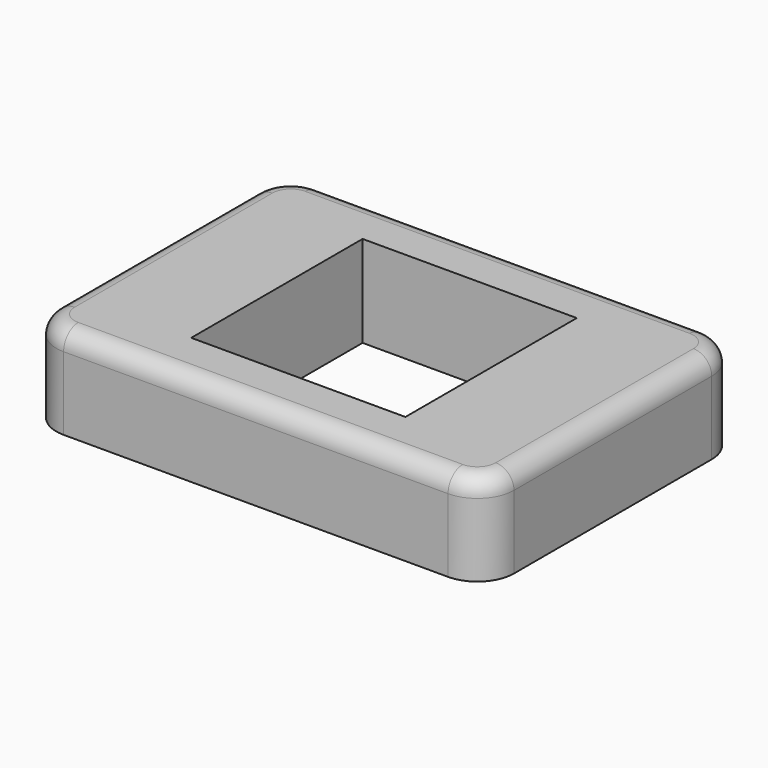
from build123d import *

# Parameters (mm, degrees)
SKETCH_W     = 50
SKETCH_H     = 35
PAD_DEPTH    = 10
SKETCH001_W  = 23.4
SKETCH001_H  = 23.4
POCKET_DEPTH = 10.001
FILLET_R     = 4
FILLET001_R  = 2


with BuildPart() as part:
    # Sketch → Pad (new body)
    with BuildSketch(Plane.XY):
        Rectangle(SKETCH_W, SKETCH_H)
    extrude(amount=PAD_DEPTH)

    # Sketch001 (on Face6 of Pad) → Pocket (cut, through all)
    with BuildSketch(Plane.XY.offset(10)):
        Rectangle(SKETCH001_W, SKETCH001_H)
    extrude(amount=-POCKET_DEPTH, mode=Mode.SUBTRACT)

    # Fillet
    fillet_edges = [part.edges().sort_by_distance(p)[0] for p in [
        (-25, 17.5, 5),
        (-25, -17.5, 5),
        (25, -17.5, 5),
        (25, 17.5, 5),
    ]]
    fillet(fillet_edges, radius=FILLET_R)

    # Fillet001
    fillet001_edges = [part.edges().sort_by_distance(p)[0] for p in [
        (-25, 0, 10),
        (-23.828427, 16.328427, 10),
        (0, 17.5, 10),
        (23.828427, 16.328427, 10),
        (25, 0, 10),
        (23.828427, -16.328427, 10),
        (0, -17.5, 10),
        (-23.828427, -16.328427, 10),
    ]]
    fillet(fillet001_edges, radius=FILLET001_R)


solid = part.part
